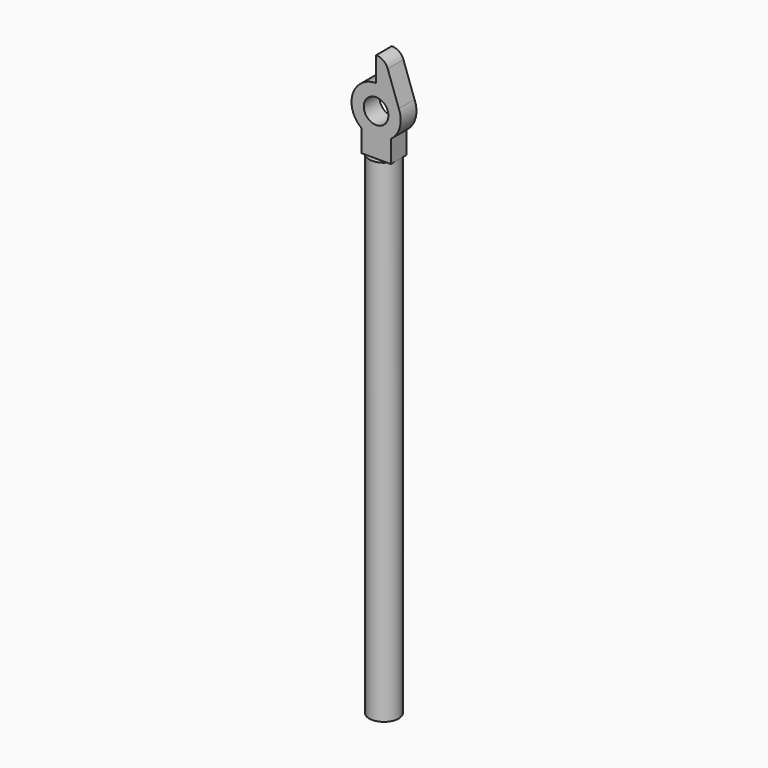
from build123d import *

# Parameters (mm, degrees)
F0_R     = 0.635
F1_DEPTH = 0.508
F2_DEPTH = 0.508
F3_R     = 0.762
F4_DEPTH = 25.4


with BuildPart() as f1:
    # F0 (on Front) → F1 (new body, symmetric)
    with BuildSketch(Plane.XZ):
        with BuildLine():
            Line((1.1718346045, 0.4895954042), (1.219972654, 0.352940113))
            ThreePointArc((1.219972654, 0.352940113), (1.1978539801, 0.4219547871), (1.1718346045, 0.4895954042))
        make_face()
        with BuildLine():
            ThreePointArc((0, 1.27), (0.7039580373, 1.0570445032), (1.1718346045, 0.4895954042))
            Line((1.1718346045, 0.4895954042), (0.59892699, 2.1159773936))
            ThreePointArc((0.59892699, 2.1159773936), (0.3669157635, 2.42326424), (0, 2.54))
            Line((0, 2.54), (0, 1.27))
        make_face()
        with BuildLine():
            ThreePointArc((0.762, -1.016), (1.1359225326, -0.5679612663), (1.27, 0))
            ThreePointArc((1.27, 0), (1.2574309664, 0.1782340166), (1.219972654, 0.352940113))
            Line((1.219972654, 0.352940113), (1.1718346045, 0.4895954042))
            ThreePointArc((1.1718346045, 0.4895954042), (0.7039580373, 1.0570445032), (0, 1.27))
            ThreePointArc((0, 1.27), (-1.2048277885, 0.4016092628), (-0.762, -1.016))
            ThreePointArc((-0.762, -1.016), (0, -1.27), (0.762, -1.016))
        make_face()
        Circle(F0_R, mode=Mode.SUBTRACT)
    extrude(amount=F1_DEPTH, both=True)

    # F0 (on Front) → F2 (join, symmetric)
    with BuildSketch(Plane.XZ):
        with BuildLine():
            Line((0.762, -2.159), (0.762, -1.016))
            ThreePointArc((0.762, -1.016), (0, -1.27), (-0.762, -1.016))
            Line((-0.762, -1.016), (-0.762, -2.159))
            Line((-0.762, -2.159), (0.762, -2.159))
        make_face()
    extrude(amount=F2_DEPTH, both=True)

    # F3 (on face) → F4 (join)
    with BuildSketch(Plane(origin=(0, 0, -2.159), x_dir=(1, 0, 0), z_dir=(0, 0, -1))):
        Circle(F3_R)
    extrude(amount=F4_DEPTH)


solid = f1.part
